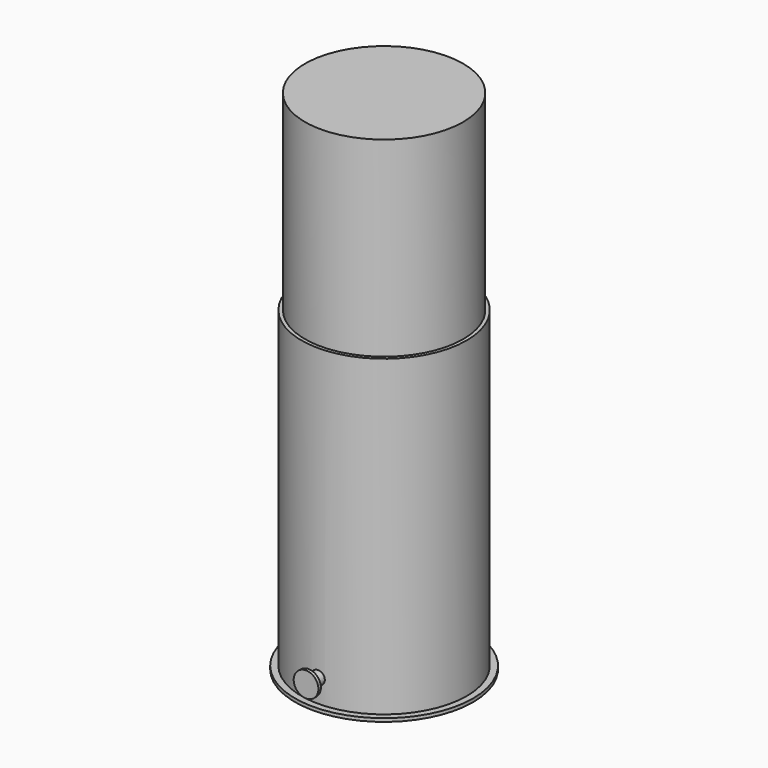
from build123d import *

# Parameters (mm, degrees)
F0_R     = 609.6
F1_DEPTH = 3911.6
F0_R_2   = 636.5875
F2_DEPTH = 2438.4
F0_R_3   = 685.8
F3_DEPTH = 25.4


with BuildPart() as f1:
    # F0 (on Top) → F1 (new body)
    with BuildSketch(Plane.XY):
        Circle(F0_R)
    extrude(amount=F1_DEPTH)

    # F0 (on Top) → F2 (join)
    with BuildSketch(Plane.XY):
        Circle(F0_R_2)
        Circle(F0_R, mode=Mode.SUBTRACT)
    extrude(amount=F2_DEPTH)

    # F0 (on Top) → F3 (join)
    with BuildSketch(Plane.XY):
        Circle(F0_R_3)
        Circle(F0_R_2, mode=Mode.SUBTRACT)
    extrude(amount=F3_DEPTH)

    # F4 (on Right) → F5 (revolve)
    with BuildSketch(Plane.YZ):
        Polygon((-751.934826, 298.439804), (-751.934826, 203.189804), (-625.43714, 203.189804), (-625.43714, 253.989804), (-728.058826, 253.989804), (-728.058826, 298.439804), align=None)
    revolve(axis=Axis((0, -584.725052, 203.189804), (0, 1, 0)))


solid = f1.part
